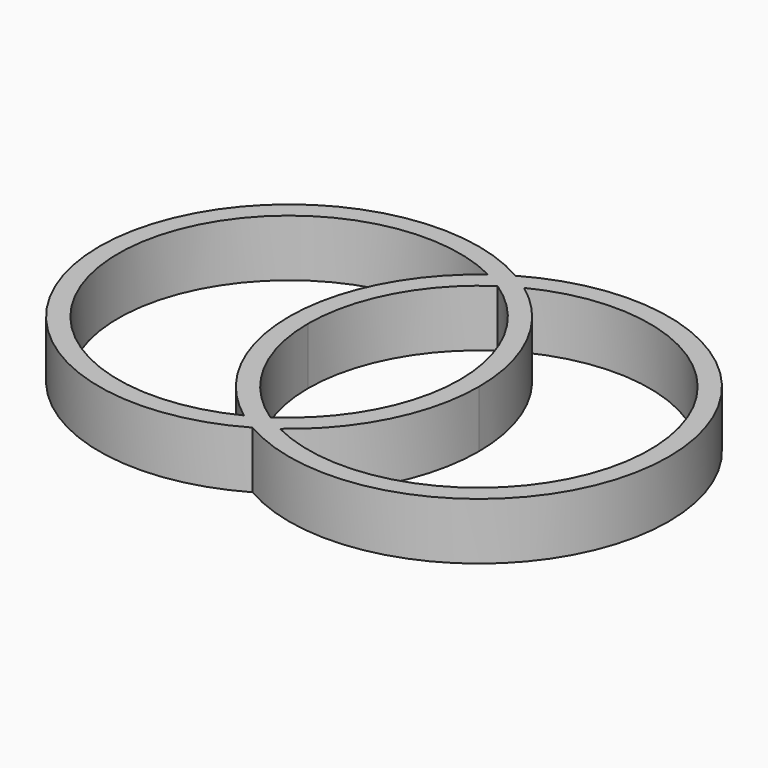
from build123d import *

# Parameters (mm, degrees)
F1_DEPTH = 3


with BuildPart() as f1:
    # F0 (on Top) → F1 (new body)
    with BuildSketch(Plane.XY):
        with BuildLine():
            ThreePointArc((0, 8.660254), (-15, 0), (0, -8.660254))
            ThreePointArc((0, -8.660254), (15, 0), (0, 8.660254))
        make_face()
        with BuildLine():
            ThreePointArc((-0.95, 8.037257), (-3.930286, 4.5), (-5, 0))
            ThreePointArc((-5, 0), (-3.930286, -4.5), (-0.95, -8.037257))
            ThreePointArc((-0.95, -8.037257), (-14, 0), (-0.95, 8.037257))
        make_face(mode=Mode.SUBTRACT)
        with BuildLine():
            ThreePointArc((0, -7.483315), (-2.937254, -4.242641), (-4, 0))
            ThreePointArc((-4, 0), (-2.937254, 4.242641), (0, 7.483315))
            ThreePointArc((0, 7.483315), (2.937254, 4.242641), (4, 0))
            ThreePointArc((4, 0), (2.937254, -4.242641), (0, -7.483315))
        make_face(mode=Mode.SUBTRACT)
        with BuildLine():
            ThreePointArc((0.95, -8.037257), (3.930286, -4.5), (5, 0))
            ThreePointArc((5, 0), (3.930286, 4.5), (0.95, 8.037257))
            ThreePointArc((0.95, 8.037257), (14, 0), (0.95, -8.037257))
        make_face(mode=Mode.SUBTRACT)
    extrude(amount=F1_DEPTH)


solid = f1.part
